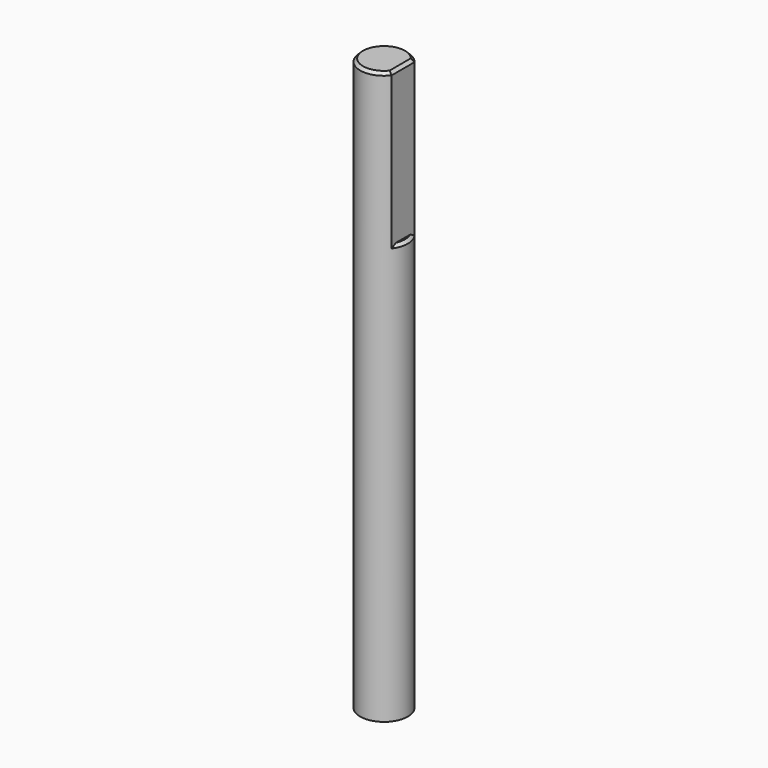
from build123d import *

# Parameters (mm, degrees)
SKETCH089_R     = 2.5
PAD038_DEPTH    = 60
SKETCH102_W     = 4
SKETCH102_H     = 4
POCKET033_DEPTH = 16
CHAMFER019_SIZE = 0.3


with BuildPart() as part:
    # Sketch089 → Pad038 (new body)
    with BuildSketch(Plane.XY):
        Circle(SKETCH089_R)
    extrude(amount=PAD038_DEPTH)

    # Sketch102 (on Face3 of Pad038) → Pocket033 (cut)
    with BuildSketch(Plane.XY.offset(60)):
        with Locations((4, 0)):
            Rectangle(SKETCH102_W, SKETCH102_H)
    extrude(amount=-POCKET033_DEPTH, mode=Mode.SUBTRACT)

    # Chamfer019
    chamfer019_edges = [part.edges().sort_by_distance(p)[0] for p in [
        (2.371708, -0.790569, 44),
        (-2.5, 0, 60),
        (2, 0, 60),
    ]]
    chamfer(chamfer019_edges, length=CHAMFER019_SIZE)


with BuildPart() as part_1:
    # Body021 placement: moved
    add(part.part.moved(Location((0, 0, 2))))


solid = part_1.part
